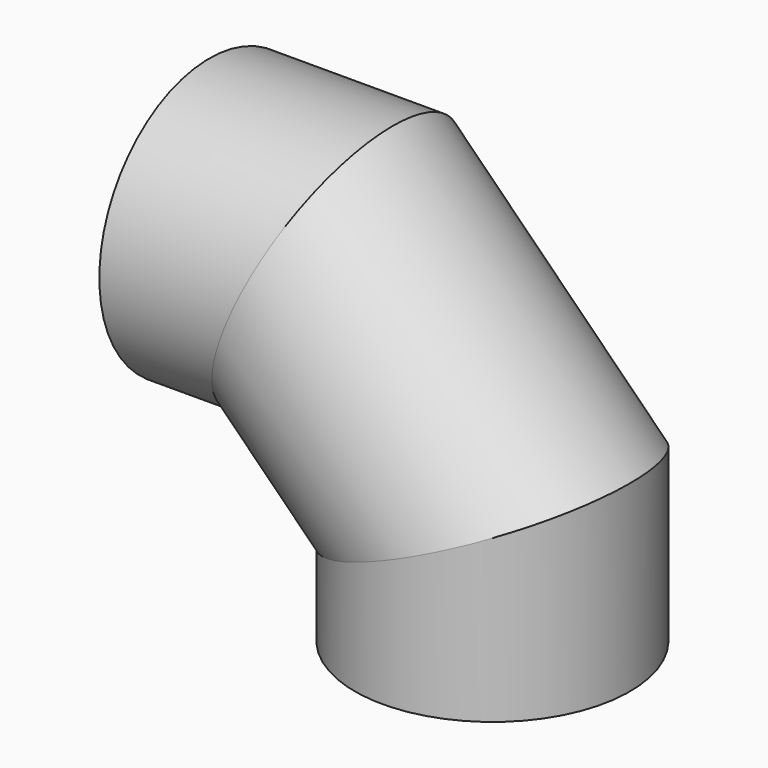
from build123d import *

# Parameters (mm, degrees)
F2_R   = 410.9
F2_R_2 = 400


with BuildPart() as f3:
    # F3: sweep along a path in F0
    with BuildLine(Plane.XZ) as f3_path:
        Line((-46, 800), (331.3708498985, 800))
        Line((331.3708498985, 800), (800, 331.3708498985))
        Line((800, 331.3708498985), (800, -46))
    # F2 (on line) → F3 (sweep)
    with BuildSketch(Plane.YZ.offset(-46)):
        with Locations((0, 800)):
            Circle(F2_R)
        with Locations((0, 800)):
            Circle(F2_R_2, mode=Mode.SUBTRACT)
    sweep(path=f3_path.line, transition=Transition.RIGHT)


solid = f3.part
